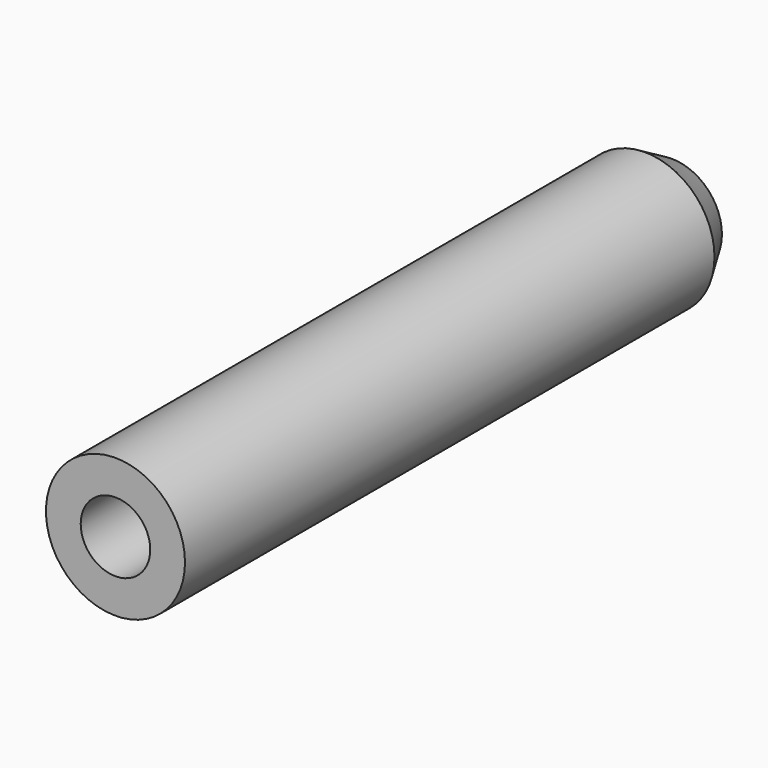
from build123d import *

# Parameters (mm, degrees)
F0_R     = 3.175
F1_DEPTH = 31.75
F3_D     = 3.175
F3_DEPTH = 12.7
F3_TIP   = 0.9538662327
F4_SIZE2 = 0.8798818102
F4_SIZE  = 1.524


with BuildPart() as f1:
    # F0 (on Front) → F1 (new body)
    with BuildSketch(Plane.XZ):
        Circle(F0_R)
    extrude(amount=F1_DEPTH)

    # F3
    with Locations(Plane.XZ.offset(31.75)):
        with Locations((0, 0)):
            Hole(F3_D / 2, depth=F3_DEPTH)
            with Locations((0, 0, -(F3_DEPTH + F3_TIP / 2))):  # 118° drill point
                Cone(0, F3_D / 2, F3_TIP, mode=Mode.SUBTRACT)

    # F4
    f4_edges = [f1.edges().sort_by_distance(p)[0] for p in [
        (-3.175, 0, 0),
    ]]
    f4_side = f1.faces().sort_by_distance((-3.175, -15.875, 0))[0]
    chamfer(f4_edges, length=F4_SIZE, length2=F4_SIZE2, reference=f4_side)


solid = f1.part
